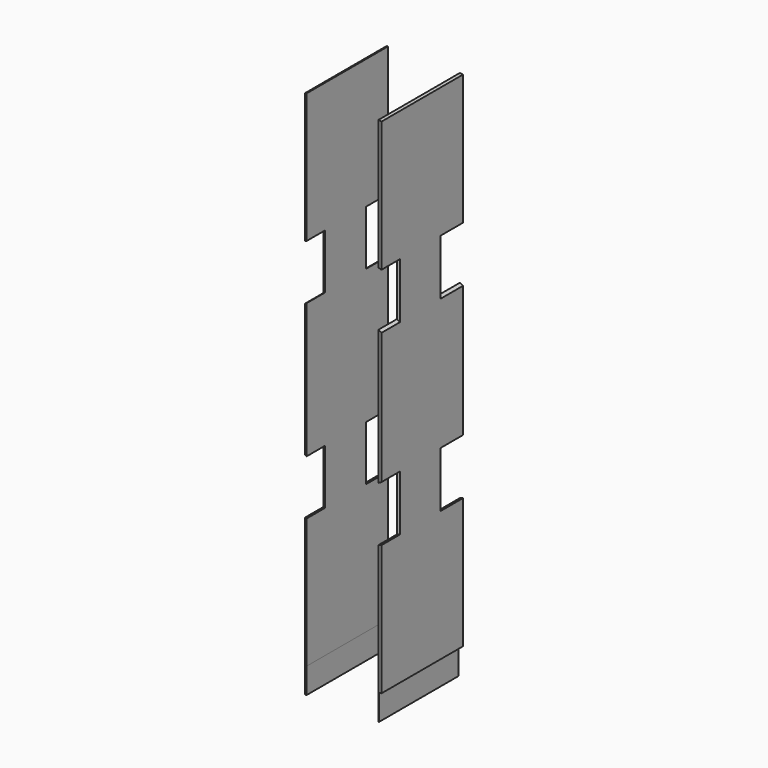
from build123d import *

# Parameters (mm, degrees)
F0_R      = 10
F1_DEPTH  = 3.175
F2_DEPTH  = 3.175
F3_R      = 5
F3_R_2    = 3
F4_DEPTH  = 2.175
F5_R      = 5
F5_R_2    = 3
F6_DEPTH  = 2.175
F11_DEPTH = 1
F12_DEPTH = 1
F15_DEPTH = 1
F18_DEPTH = 0.75
F19_DEPTH = 3000


with BuildPart() as f1:
    # F0 (on Front) → F1 (new body)
    with BuildSketch(Plane.XZ):
        Circle(F0_R)
    extrude(amount=F1_DEPTH)

    # F0 (on Front) → F2 (join)
    with BuildSketch(Plane.XZ):
        Circle(F0_R)
    extrude(amount=-F2_DEPTH)

    # F3 (on face) → F4 (cut)
    with BuildSketch(Plane.XZ.offset(3.175)):
        Circle(F3_R)
        Circle(F3_R_2, mode=Mode.SUBTRACT)
    extrude(amount=-F4_DEPTH, mode=Mode.SUBTRACT)

    # F5 (on face) → F6 (cut)
    with BuildSketch(Plane(origin=(0, 3.175, 0), x_dir=(-1, 0, 0), z_dir=(0, 1, 0))):
        Circle(F5_R)
        Circle(F5_R_2, mode=Mode.SUBTRACT)
    extrude(amount=-F6_DEPTH, mode=Mode.SUBTRACT)

    # F10 (on offset) → F11 (join)
    with BuildSketch(Plane.XY.offset(9.9)):
        Polygon((-0.4686709089, 2.0901043895), (-1.4686709089, 2.0901043895), (-1.4686709089, -1.9098956105), (-0.4686709089, -1.9098956105), (-0.4686709089, -0.9098956105), (0.5313290911, -0.9098956105), (0.5313290911, -1.9098956105), (1.5313290911, -1.9098956105), (1.5313290911, 2.0901043895), (0.5313290911, 2.0901043895), (0.5313290911, 1.0901043895), (-0.4686709089, 1.0901043895), align=None)
    extrude(amount=F11_DEPTH)

    # F8 (on offset) → F12 (join)
    with BuildSketch(Plane.XY.offset(-9.9)):
        Polygon((-0.5624998019, 2), (-1.5624998019, 2), (-1.5624998019, -2), (-0.5624998019, -2), (-0.5624998019, -1), (0.4375001981, -1), (0.4375001981, -2), (1.4375001981, -2), (1.4375001981, 2), (0.4375001981, 2), (0.4375001981, 1), (-0.5624998019, 1), align=None)
    extrude(amount=-F12_DEPTH)

    # F14 (on offset) → F15 (cut)
    with BuildSketch(Plane.YZ.offset(10)):
        Polygon((-2.2010609162, -0.5056351235), (-2.2010609162, -1.7056351235), (2.1989390838, -1.7056351235), (2.1989390838, -0.5056351235), (0.9989390838, -0.5056351235), (0.9989390838, 0.6943648765), (2.1989390838, 0.6943648765), (2.1989390838, 1.8943648765), (-2.2010609162, 1.8943648765), (-2.2010609162, 0.6943648765), (-1.0010609162, 0.6943648765), (-1.0010609162, -0.5056351235), align=None)
    extrude(amount=-F15_DEPTH, mode=Mode.SUBTRACT)

    # F17 (on offset) → F18 (cut)
    with BuildSketch(Plane.YZ.offset(-10)):
        Polygon((-2.1999866034, -0.5999038326), (-2.1999866034, -1.7999038326), (2.2000133966, -1.7999038326), (2.2000133966, -0.5999038326), (1.0000133966, -0.5999038326), (1.0000133966, 0.6000961674), (2.2000133966, 0.6000961674), (2.2000133966, 1.8000961674), (-2.1999866034, 1.8000961674), (-2.1999866034, 0.6000961674), (-0.9999866034, 0.6000961674), (-0.9999866034, -0.5999038326), align=None)
    extrude(amount=F18_DEPTH, mode=Mode.SUBTRACT)

    # F19 (intersect): faces of the model
    f19_faces = [f1.faces().sort_by_distance(p)[0] for p in [
        (-1.4396722534, 0.0901043895, 9.9),
        (1.4710013446, 0.0901043895, 9.9),
    ]]
    extrude(f19_faces, amount=F19_DEPTH, mode=Mode.INTERSECT)


solid = f1.part
